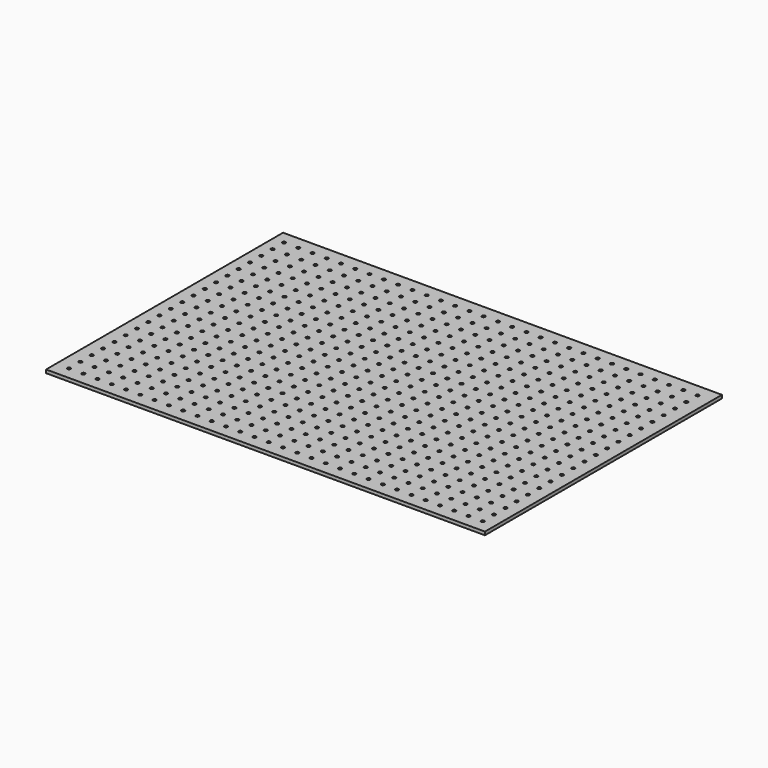
from build123d import *

# Parameters (mm, degrees)
F0_W     = 200
F0_H     = 135
F0_R     = 0.75
F1_DEPTH = 1.5


with BuildPart() as f1:
    # F0 (on Top) → F1 (new body)
    with BuildSketch(Plane.XY):
        Rectangle(F0_W, F0_H)
        with Locations((-94.109363, -61.746788)):
            Circle(F0_R, mode=Mode.SUBTRACT)
        with Locations((-87.609363, -61.746788)):
            Circle(F0_R, mode=Mode.SUBTRACT)
        with Locations((-81.109363, -61.746788)):
            Circle(F0_R, mode=Mode.SUBTRACT)
        with Locations((-94.156238, -55.246958)):
            Circle(F0_R, mode=Mode.SUBTRACT)
        with Locations((-87.656238, -55.246958)):
            Circle(F0_R, mode=Mode.SUBTRACT)
        with Locations((-81.156238, -55.246958)):
            Circle(F0_R, mode=Mode.SUBTRACT)
        with Locations((-74.609363, -61.746788)):
            Circle(F0_R, mode=Mode.SUBTRACT)
        with Locations((-68.109363, -61.746788)):
            Circle(F0_R, mode=Mode.SUBTRACT)
        with Locations((-61.609363, -61.746788)):
            Circle(F0_R, mode=Mode.SUBTRACT)
        with Locations((-55.109363, -61.746788)):
            Circle(F0_R, mode=Mode.SUBTRACT)
        with Locations((-74.656238, -55.246958)):
            Circle(F0_R, mode=Mode.SUBTRACT)
        with Locations((-68.156238, -55.246958)):
            Circle(F0_R, mode=Mode.SUBTRACT)
        with Locations((-61.656238, -55.246958)):
            Circle(F0_R, mode=Mode.SUBTRACT)
        with Locations((-55.156238, -55.246958)):
            Circle(F0_R, mode=Mode.SUBTRACT)
        with Locations((-94.203114, -48.747127)):
            Circle(F0_R, mode=Mode.SUBTRACT)
        with Locations((-87.703114, -48.747127)):
            Circle(F0_R, mode=Mode.SUBTRACT)
        with Locations((-94.24999, -42.247296)):
            Circle(F0_R, mode=Mode.SUBTRACT)
        with Locations((-87.74999, -42.247296)):
            Circle(F0_R, mode=Mode.SUBTRACT)
        with Locations((-81.203114, -48.747127)):
            Circle(F0_R, mode=Mode.SUBTRACT)
        with Locations((-81.24999, -42.247296)):
            Circle(F0_R, mode=Mode.SUBTRACT)
        with Locations((-94.296865, -35.747465)):
            Circle(F0_R, mode=Mode.SUBTRACT)
        with Locations((-87.796865, -35.747465)):
            Circle(F0_R, mode=Mode.SUBTRACT)
        with Locations((-81.296865, -35.747465)):
            Circle(F0_R, mode=Mode.SUBTRACT)
        with Locations((-74.703114, -48.747127)):
            Circle(F0_R, mode=Mode.SUBTRACT)
        with Locations((-68.203114, -48.747127)):
            Circle(F0_R, mode=Mode.SUBTRACT)
        with Locations((-74.74999, -42.247296)):
            Circle(F0_R, mode=Mode.SUBTRACT)
        with Locations((-68.24999, -42.247296)):
            Circle(F0_R, mode=Mode.SUBTRACT)
        with Locations((-61.703114, -48.747127)):
            Circle(F0_R, mode=Mode.SUBTRACT)
        with Locations((-55.203114, -48.747127)):
            Circle(F0_R, mode=Mode.SUBTRACT)
        with Locations((-61.74999, -42.247296)):
            Circle(F0_R, mode=Mode.SUBTRACT)
        with Locations((-55.24999, -42.247296)):
            Circle(F0_R, mode=Mode.SUBTRACT)
        with Locations((-74.796865, -35.747465)):
            Circle(F0_R, mode=Mode.SUBTRACT)
        with Locations((-68.296865, -35.747465)):
            Circle(F0_R, mode=Mode.SUBTRACT)
        with Locations((-61.796865, -35.747465)):
            Circle(F0_R, mode=Mode.SUBTRACT)
        with Locations((-55.296865, -35.747465)):
            Circle(F0_R, mode=Mode.SUBTRACT)
        with Locations((-48.609363, -61.746788)):
            Circle(F0_R, mode=Mode.SUBTRACT)
        with Locations((-42.109363, -61.746788)):
            Circle(F0_R, mode=Mode.SUBTRACT)
        with Locations((-35.609363, -61.746788)):
            Circle(F0_R, mode=Mode.SUBTRACT)
        with Locations((-29.109363, -61.746788)):
            Circle(F0_R, mode=Mode.SUBTRACT)
        with Locations((-48.656238, -55.246958)):
            Circle(F0_R, mode=Mode.SUBTRACT)
        with Locations((-42.156238, -55.246958)):
            Circle(F0_R, mode=Mode.SUBTRACT)
        with Locations((-35.656238, -55.246958)):
            Circle(F0_R, mode=Mode.SUBTRACT)
        with Locations((-29.156238, -55.246958)):
            Circle(F0_R, mode=Mode.SUBTRACT)
        with Locations((-22.609363, -61.746788)):
            Circle(F0_R, mode=Mode.SUBTRACT)
        with Locations((-16.109363, -61.746788)):
            Circle(F0_R, mode=Mode.SUBTRACT)
        with Locations((-9.609363, -61.746788)):
            Circle(F0_R, mode=Mode.SUBTRACT)
        with Locations((-3.109363, -61.746788)):
            Circle(F0_R, mode=Mode.SUBTRACT)
        with Locations((-22.656238, -55.246958)):
            Circle(F0_R, mode=Mode.SUBTRACT)
        with Locations((-16.156238, -55.246958)):
            Circle(F0_R, mode=Mode.SUBTRACT)
        with Locations((-9.656238, -55.246958)):
            Circle(F0_R, mode=Mode.SUBTRACT)
        with Locations((-3.156238, -55.246958)):
            Circle(F0_R, mode=Mode.SUBTRACT)
        with Locations((-48.703114, -48.747127)):
            Circle(F0_R, mode=Mode.SUBTRACT)
        with Locations((-42.203114, -48.747127)):
            Circle(F0_R, mode=Mode.SUBTRACT)
        with Locations((-48.74999, -42.247296)):
            Circle(F0_R, mode=Mode.SUBTRACT)
        with Locations((-42.24999, -42.247296)):
            Circle(F0_R, mode=Mode.SUBTRACT)
        with Locations((-35.703114, -48.747127)):
            Circle(F0_R, mode=Mode.SUBTRACT)
        with Locations((-29.203114, -48.747127)):
            Circle(F0_R, mode=Mode.SUBTRACT)
        with Locations((-35.74999, -42.247296)):
            Circle(F0_R, mode=Mode.SUBTRACT)
        with Locations((-29.24999, -42.247296)):
            Circle(F0_R, mode=Mode.SUBTRACT)
        with Locations((-48.796865, -35.747465)):
            Circle(F0_R, mode=Mode.SUBTRACT)
        with Locations((-42.296865, -35.747465)):
            Circle(F0_R, mode=Mode.SUBTRACT)
        with Locations((-35.796865, -35.747465)):
            Circle(F0_R, mode=Mode.SUBTRACT)
        with Locations((-29.296865, -35.747465)):
            Circle(F0_R, mode=Mode.SUBTRACT)
        with Locations((-22.703114, -48.747127)):
            Circle(F0_R, mode=Mode.SUBTRACT)
        with Locations((-16.203114, -48.747127)):
            Circle(F0_R, mode=Mode.SUBTRACT)
        with Locations((-22.74999, -42.247296)):
            Circle(F0_R, mode=Mode.SUBTRACT)
        with Locations((-16.24999, -42.247296)):
            Circle(F0_R, mode=Mode.SUBTRACT)
        with Locations((-9.703114, -48.747127)):
            Circle(F0_R, mode=Mode.SUBTRACT)
        with Locations((-3.203114, -48.747127)):
            Circle(F0_R, mode=Mode.SUBTRACT)
        with Locations((-9.74999, -42.247296)):
            Circle(F0_R, mode=Mode.SUBTRACT)
        with Locations((-3.24999, -42.247296)):
            Circle(F0_R, mode=Mode.SUBTRACT)
        with Locations((-22.796865, -35.747465)):
            Circle(F0_R, mode=Mode.SUBTRACT)
        with Locations((-16.296865, -35.747465)):
            Circle(F0_R, mode=Mode.SUBTRACT)
        with Locations((-9.796865, -35.747465)):
            Circle(F0_R, mode=Mode.SUBTRACT)
        with Locations((-3.296865, -35.747465)):
            Circle(F0_R, mode=Mode.SUBTRACT)
        with Locations((-94.343741, -29.247634)):
            Circle(F0_R, mode=Mode.SUBTRACT)
        with Locations((-87.843741, -29.247634)):
            Circle(F0_R, mode=Mode.SUBTRACT)
        with Locations((-81.343741, -29.247634)):
            Circle(F0_R, mode=Mode.SUBTRACT)
        with Locations((-94.390617, -22.747803)):
            Circle(F0_R, mode=Mode.SUBTRACT)
        with Locations((-87.890617, -22.747803)):
            Circle(F0_R, mode=Mode.SUBTRACT)
        with Locations((-81.390617, -22.747803)):
            Circle(F0_R, mode=Mode.SUBTRACT)
        with Locations((-74.843741, -29.247634)):
            Circle(F0_R, mode=Mode.SUBTRACT)
        with Locations((-68.343741, -29.247634)):
            Circle(F0_R, mode=Mode.SUBTRACT)
        with Locations((-61.843741, -29.247634)):
            Circle(F0_R, mode=Mode.SUBTRACT)
        with Locations((-55.343741, -29.247634)):
            Circle(F0_R, mode=Mode.SUBTRACT)
        with Locations((-74.890617, -22.747803)):
            Circle(F0_R, mode=Mode.SUBTRACT)
        with Locations((-68.390617, -22.747803)):
            Circle(F0_R, mode=Mode.SUBTRACT)
        with Locations((-61.890617, -22.747803)):
            Circle(F0_R, mode=Mode.SUBTRACT)
        with Locations((-55.390617, -22.747803)):
            Circle(F0_R, mode=Mode.SUBTRACT)
        with Locations((-94.437492, -16.247972)):
            Circle(F0_R, mode=Mode.SUBTRACT)
        with Locations((-87.937492, -16.247972)):
            Circle(F0_R, mode=Mode.SUBTRACT)
        with Locations((-94.484368, -9.748141)):
            Circle(F0_R, mode=Mode.SUBTRACT)
        with Locations((-87.984368, -9.748141)):
            Circle(F0_R, mode=Mode.SUBTRACT)
        with Locations((-81.437492, -16.247972)):
            Circle(F0_R, mode=Mode.SUBTRACT)
        with Locations((-81.484368, -9.748141)):
            Circle(F0_R, mode=Mode.SUBTRACT)
        with Locations((-94.531243, -3.24831)):
            Circle(F0_R, mode=Mode.SUBTRACT)
        with Locations((-88.031243, -3.24831)):
            Circle(F0_R, mode=Mode.SUBTRACT)
        with Locations((-81.531243, -3.24831)):
            Circle(F0_R, mode=Mode.SUBTRACT)
        with Locations((-75.031243, -3.24831)):
            Circle(F0_R, mode=Mode.SUBTRACT)
        with Locations((-74.937492, -16.247972)):
            Circle(F0_R, mode=Mode.SUBTRACT)
        with Locations((-68.437492, -16.247972)):
            Circle(F0_R, mode=Mode.SUBTRACT)
        with Locations((-74.984368, -9.748141)):
            Circle(F0_R, mode=Mode.SUBTRACT)
        with Locations((-68.484368, -9.748141)):
            Circle(F0_R, mode=Mode.SUBTRACT)
        with Locations((-61.937492, -16.247972)):
            Circle(F0_R, mode=Mode.SUBTRACT)
        with Locations((-55.437492, -16.247972)):
            Circle(F0_R, mode=Mode.SUBTRACT)
        with Locations((-61.984368, -9.748141)):
            Circle(F0_R, mode=Mode.SUBTRACT)
        with Locations((-55.484368, -9.748141)):
            Circle(F0_R, mode=Mode.SUBTRACT)
        with Locations((-68.531243, -3.24831)):
            Circle(F0_R, mode=Mode.SUBTRACT)
        with Locations((-62.031243, -3.24831)):
            Circle(F0_R, mode=Mode.SUBTRACT)
        with Locations((-55.531243, -3.24831)):
            Circle(F0_R, mode=Mode.SUBTRACT)
        with Locations((-48.843741, -29.247634)):
            Circle(F0_R, mode=Mode.SUBTRACT)
        with Locations((-42.343741, -29.247634)):
            Circle(F0_R, mode=Mode.SUBTRACT)
        with Locations((-35.843741, -29.247634)):
            Circle(F0_R, mode=Mode.SUBTRACT)
        with Locations((-29.343741, -29.247634)):
            Circle(F0_R, mode=Mode.SUBTRACT)
        with Locations((-48.890617, -22.747803)):
            Circle(F0_R, mode=Mode.SUBTRACT)
        with Locations((-42.390617, -22.747803)):
            Circle(F0_R, mode=Mode.SUBTRACT)
        with Locations((-35.890617, -22.747803)):
            Circle(F0_R, mode=Mode.SUBTRACT)
        with Locations((-29.390617, -22.747803)):
            Circle(F0_R, mode=Mode.SUBTRACT)
        with Locations((-22.843741, -29.247634)):
            Circle(F0_R, mode=Mode.SUBTRACT)
        with Locations((-16.343741, -29.247634)):
            Circle(F0_R, mode=Mode.SUBTRACT)
        with Locations((-9.843741, -29.247634)):
            Circle(F0_R, mode=Mode.SUBTRACT)
        with Locations((-3.343741, -29.247634)):
            Circle(F0_R, mode=Mode.SUBTRACT)
        with Locations((-22.890617, -22.747803)):
            Circle(F0_R, mode=Mode.SUBTRACT)
        with Locations((-16.390617, -22.747803)):
            Circle(F0_R, mode=Mode.SUBTRACT)
        with Locations((-9.890617, -22.747803)):
            Circle(F0_R, mode=Mode.SUBTRACT)
        with Locations((-3.390617, -22.747803)):
            Circle(F0_R, mode=Mode.SUBTRACT)
        with Locations((-48.937492, -16.247972)):
            Circle(F0_R, mode=Mode.SUBTRACT)
        with Locations((-42.437492, -16.247972)):
            Circle(F0_R, mode=Mode.SUBTRACT)
        with Locations((-48.984368, -9.748141)):
            Circle(F0_R, mode=Mode.SUBTRACT)
        with Locations((-42.484368, -9.748141)):
            Circle(F0_R, mode=Mode.SUBTRACT)
        with Locations((-35.937492, -16.247972)):
            Circle(F0_R, mode=Mode.SUBTRACT)
        with Locations((-29.437492, -16.247972)):
            Circle(F0_R, mode=Mode.SUBTRACT)
        with Locations((-35.984368, -9.748141)):
            Circle(F0_R, mode=Mode.SUBTRACT)
        with Locations((-29.484368, -9.748141)):
            Circle(F0_R, mode=Mode.SUBTRACT)
        with Locations((-49.031243, -3.24831)):
            Circle(F0_R, mode=Mode.SUBTRACT)
        with Locations((-42.531243, -3.24831)):
            Circle(F0_R, mode=Mode.SUBTRACT)
        with Locations((-36.031243, -3.24831)):
            Circle(F0_R, mode=Mode.SUBTRACT)
        with Locations((-29.531243, -3.24831)):
            Circle(F0_R, mode=Mode.SUBTRACT)
        with Locations((-22.937492, -16.247972)):
            Circle(F0_R, mode=Mode.SUBTRACT)
        with Locations((-16.437492, -16.247972)):
            Circle(F0_R, mode=Mode.SUBTRACT)
        with Locations((-22.984368, -9.748141)):
            Circle(F0_R, mode=Mode.SUBTRACT)
        with Locations((-16.484368, -9.748141)):
            Circle(F0_R, mode=Mode.SUBTRACT)
        with Locations((-9.937492, -16.247972)):
            Circle(F0_R, mode=Mode.SUBTRACT)
        with Locations((-3.437492, -16.247972)):
            Circle(F0_R, mode=Mode.SUBTRACT)
        with Locations((-9.984368, -9.748141)):
            Circle(F0_R, mode=Mode.SUBTRACT)
        with Locations((-3.484368, -9.748141)):
            Circle(F0_R, mode=Mode.SUBTRACT)
        with Locations((-23.031243, -3.24831)):
            Circle(F0_R, mode=Mode.SUBTRACT)
        with Locations((-16.531243, -3.24831)):
            Circle(F0_R, mode=Mode.SUBTRACT)
        with Locations((-10.031243, -3.24831)):
            Circle(F0_R, mode=Mode.SUBTRACT)
        with Locations((-3.531243, -3.24831)):
            Circle(F0_R, mode=Mode.SUBTRACT)
        with Locations((3.390637, -61.746788)):
            Circle(F0_R, mode=Mode.SUBTRACT)
        with Locations((9.890637, -61.746788)):
            Circle(F0_R, mode=Mode.SUBTRACT)
        with Locations((16.390637, -61.746788)):
            Circle(F0_R, mode=Mode.SUBTRACT)
        with Locations((22.890637, -61.746788)):
            Circle(F0_R, mode=Mode.SUBTRACT)
        with Locations((3.343762, -55.246958)):
            Circle(F0_R, mode=Mode.SUBTRACT)
        with Locations((9.843762, -55.246958)):
            Circle(F0_R, mode=Mode.SUBTRACT)
        with Locations((16.343762, -55.246958)):
            Circle(F0_R, mode=Mode.SUBTRACT)
        with Locations((22.843762, -55.246958)):
            Circle(F0_R, mode=Mode.SUBTRACT)
        with Locations((29.390637, -61.746788)):
            Circle(F0_R, mode=Mode.SUBTRACT)
        with Locations((35.890637, -61.746788)):
            Circle(F0_R, mode=Mode.SUBTRACT)
        with Locations((42.390637, -61.746788)):
            Circle(F0_R, mode=Mode.SUBTRACT)
        with Locations((48.890637, -61.746788)):
            Circle(F0_R, mode=Mode.SUBTRACT)
        with Locations((29.343762, -55.246958)):
            Circle(F0_R, mode=Mode.SUBTRACT)
        with Locations((35.843762, -55.246958)):
            Circle(F0_R, mode=Mode.SUBTRACT)
        with Locations((42.343762, -55.246958)):
            Circle(F0_R, mode=Mode.SUBTRACT)
        with Locations((48.843762, -55.246958)):
            Circle(F0_R, mode=Mode.SUBTRACT)
        with Locations((3.296886, -48.747127)):
            Circle(F0_R, mode=Mode.SUBTRACT)
        with Locations((9.796886, -48.747127)):
            Circle(F0_R, mode=Mode.SUBTRACT)
        with Locations((3.25001, -42.247296)):
            Circle(F0_R, mode=Mode.SUBTRACT)
        with Locations((9.75001, -42.247296)):
            Circle(F0_R, mode=Mode.SUBTRACT)
        with Locations((16.296886, -48.747127)):
            Circle(F0_R, mode=Mode.SUBTRACT)
        with Locations((22.796886, -48.747127)):
            Circle(F0_R, mode=Mode.SUBTRACT)
        with Locations((16.25001, -42.247296)):
            Circle(F0_R, mode=Mode.SUBTRACT)
        with Locations((22.75001, -42.247296)):
            Circle(F0_R, mode=Mode.SUBTRACT)
        with Locations((3.203135, -35.747465)):
            Circle(F0_R, mode=Mode.SUBTRACT)
        with Locations((9.703135, -35.747465)):
            Circle(F0_R, mode=Mode.SUBTRACT)
        with Locations((16.203135, -35.747465)):
            Circle(F0_R, mode=Mode.SUBTRACT)
        with Locations((22.703135, -35.747465)):
            Circle(F0_R, mode=Mode.SUBTRACT)
        with Locations((29.296886, -48.747127)):
            Circle(F0_R, mode=Mode.SUBTRACT)
        with Locations((35.796886, -48.747127)):
            Circle(F0_R, mode=Mode.SUBTRACT)
        with Locations((29.25001, -42.247296)):
            Circle(F0_R, mode=Mode.SUBTRACT)
        with Locations((35.75001, -42.247296)):
            Circle(F0_R, mode=Mode.SUBTRACT)
        with Locations((42.296886, -48.747127)):
            Circle(F0_R, mode=Mode.SUBTRACT)
        with Locations((48.796886, -48.747127)):
            Circle(F0_R, mode=Mode.SUBTRACT)
        with Locations((42.25001, -42.247296)):
            Circle(F0_R, mode=Mode.SUBTRACT)
        with Locations((48.75001, -42.247296)):
            Circle(F0_R, mode=Mode.SUBTRACT)
        with Locations((29.203135, -35.747465)):
            Circle(F0_R, mode=Mode.SUBTRACT)
        with Locations((35.703135, -35.747465)):
            Circle(F0_R, mode=Mode.SUBTRACT)
        with Locations((42.203135, -35.747465)):
            Circle(F0_R, mode=Mode.SUBTRACT)
        with Locations((48.703135, -35.747465)):
            Circle(F0_R, mode=Mode.SUBTRACT)
        with Locations((55.390637, -61.746788)):
            Circle(F0_R, mode=Mode.SUBTRACT)
        with Locations((61.890637, -61.746788)):
            Circle(F0_R, mode=Mode.SUBTRACT)
        with Locations((68.390637, -61.746788)):
            Circle(F0_R, mode=Mode.SUBTRACT)
        with Locations((74.890637, -61.746788)):
            Circle(F0_R, mode=Mode.SUBTRACT)
        with Locations((55.343762, -55.246958)):
            Circle(F0_R, mode=Mode.SUBTRACT)
        with Locations((61.843762, -55.246958)):
            Circle(F0_R, mode=Mode.SUBTRACT)
        with Locations((68.343762, -55.246958)):
            Circle(F0_R, mode=Mode.SUBTRACT)
        with Locations((74.843762, -55.246958)):
            Circle(F0_R, mode=Mode.SUBTRACT)
        with Locations((81.390637, -61.746788)):
            Circle(F0_R, mode=Mode.SUBTRACT)
        with Locations((87.890637, -61.746788)):
            Circle(F0_R, mode=Mode.SUBTRACT)
        with Locations((94.390637, -61.746788)):
            Circle(F0_R, mode=Mode.SUBTRACT)
        with Locations((81.343762, -55.246958)):
            Circle(F0_R, mode=Mode.SUBTRACT)
        with Locations((87.843762, -55.246958)):
            Circle(F0_R, mode=Mode.SUBTRACT)
        with Locations((94.343762, -55.246958)):
            Circle(F0_R, mode=Mode.SUBTRACT)
        with Locations((55.296886, -48.747127)):
            Circle(F0_R, mode=Mode.SUBTRACT)
        with Locations((61.796886, -48.747127)):
            Circle(F0_R, mode=Mode.SUBTRACT)
        with Locations((55.25001, -42.247296)):
            Circle(F0_R, mode=Mode.SUBTRACT)
        with Locations((61.75001, -42.247296)):
            Circle(F0_R, mode=Mode.SUBTRACT)
        with Locations((68.296886, -48.747127)):
            Circle(F0_R, mode=Mode.SUBTRACT)
        with Locations((74.796886, -48.747127)):
            Circle(F0_R, mode=Mode.SUBTRACT)
        with Locations((68.25001, -42.247296)):
            Circle(F0_R, mode=Mode.SUBTRACT)
        with Locations((74.75001, -42.247296)):
            Circle(F0_R, mode=Mode.SUBTRACT)
        with Locations((55.203135, -35.747465)):
            Circle(F0_R, mode=Mode.SUBTRACT)
        with Locations((61.703135, -35.747465)):
            Circle(F0_R, mode=Mode.SUBTRACT)
        with Locations((68.203135, -35.747465)):
            Circle(F0_R, mode=Mode.SUBTRACT)
        with Locations((74.703135, -35.747465)):
            Circle(F0_R, mode=Mode.SUBTRACT)
        with Locations((81.296886, -48.747127)):
            Circle(F0_R, mode=Mode.SUBTRACT)
        with Locations((81.25001, -42.247296)):
            Circle(F0_R, mode=Mode.SUBTRACT)
        with Locations((87.796886, -48.747127)):
            Circle(F0_R, mode=Mode.SUBTRACT)
        with Locations((94.296886, -48.747127)):
            Circle(F0_R, mode=Mode.SUBTRACT)
        with Locations((87.75001, -42.247296)):
            Circle(F0_R, mode=Mode.SUBTRACT)
        with Locations((94.25001, -42.247296)):
            Circle(F0_R, mode=Mode.SUBTRACT)
        with Locations((81.203135, -35.747465)):
            Circle(F0_R, mode=Mode.SUBTRACT)
        with Locations((87.703135, -35.747465)):
            Circle(F0_R, mode=Mode.SUBTRACT)
        with Locations((94.203135, -35.747465)):
            Circle(F0_R, mode=Mode.SUBTRACT)
        with Locations((3.156259, -29.247634)):
            Circle(F0_R, mode=Mode.SUBTRACT)
        with Locations((9.656259, -29.247634)):
            Circle(F0_R, mode=Mode.SUBTRACT)
        with Locations((16.156259, -29.247634)):
            Circle(F0_R, mode=Mode.SUBTRACT)
        with Locations((22.656259, -29.247634)):
            Circle(F0_R, mode=Mode.SUBTRACT)
        with Locations((3.109383, -22.747803)):
            Circle(F0_R, mode=Mode.SUBTRACT)
        with Locations((9.609383, -22.747803)):
            Circle(F0_R, mode=Mode.SUBTRACT)
        with Locations((16.109383, -22.747803)):
            Circle(F0_R, mode=Mode.SUBTRACT)
        with Locations((22.609383, -22.747803)):
            Circle(F0_R, mode=Mode.SUBTRACT)
        with Locations((29.156259, -29.247634)):
            Circle(F0_R, mode=Mode.SUBTRACT)
        with Locations((35.656259, -29.247634)):
            Circle(F0_R, mode=Mode.SUBTRACT)
        with Locations((42.156259, -29.247634)):
            Circle(F0_R, mode=Mode.SUBTRACT)
        with Locations((48.656259, -29.247634)):
            Circle(F0_R, mode=Mode.SUBTRACT)
        with Locations((29.109383, -22.747803)):
            Circle(F0_R, mode=Mode.SUBTRACT)
        with Locations((35.609383, -22.747803)):
            Circle(F0_R, mode=Mode.SUBTRACT)
        with Locations((42.109383, -22.747803)):
            Circle(F0_R, mode=Mode.SUBTRACT)
        with Locations((48.609383, -22.747803)):
            Circle(F0_R, mode=Mode.SUBTRACT)
        with Locations((3.062508, -16.247972)):
            Circle(F0_R, mode=Mode.SUBTRACT)
        with Locations((9.562508, -16.247972)):
            Circle(F0_R, mode=Mode.SUBTRACT)
        with Locations((3.015632, -9.748141)):
            Circle(F0_R, mode=Mode.SUBTRACT)
        with Locations((9.515632, -9.748141)):
            Circle(F0_R, mode=Mode.SUBTRACT)
        with Locations((16.062508, -16.247972)):
            Circle(F0_R, mode=Mode.SUBTRACT)
        with Locations((22.562508, -16.247972)):
            Circle(F0_R, mode=Mode.SUBTRACT)
        with Locations((16.015632, -9.748141)):
            Circle(F0_R, mode=Mode.SUBTRACT)
        with Locations((22.515632, -9.748141)):
            Circle(F0_R, mode=Mode.SUBTRACT)
        with Locations((2.968757, -3.24831)):
            Circle(F0_R, mode=Mode.SUBTRACT)
        with Locations((9.468757, -3.24831)):
            Circle(F0_R, mode=Mode.SUBTRACT)
        with Locations((15.968757, -3.24831)):
            Circle(F0_R, mode=Mode.SUBTRACT)
        with Locations((22.468757, -3.24831)):
            Circle(F0_R, mode=Mode.SUBTRACT)
        with Locations((29.062508, -16.247972)):
            Circle(F0_R, mode=Mode.SUBTRACT)
        with Locations((35.562508, -16.247972)):
            Circle(F0_R, mode=Mode.SUBTRACT)
        with Locations((29.015632, -9.748141)):
            Circle(F0_R, mode=Mode.SUBTRACT)
        with Locations((35.515632, -9.748141)):
            Circle(F0_R, mode=Mode.SUBTRACT)
        with Locations((42.062508, -16.247972)):
            Circle(F0_R, mode=Mode.SUBTRACT)
        with Locations((48.562508, -16.247972)):
            Circle(F0_R, mode=Mode.SUBTRACT)
        with Locations((42.015632, -9.748141)):
            Circle(F0_R, mode=Mode.SUBTRACT)
        with Locations((48.515632, -9.748141)):
            Circle(F0_R, mode=Mode.SUBTRACT)
        with Locations((28.968757, -3.24831)):
            Circle(F0_R, mode=Mode.SUBTRACT)
        with Locations((35.468757, -3.24831)):
            Circle(F0_R, mode=Mode.SUBTRACT)
        with Locations((41.968757, -3.24831)):
            Circle(F0_R, mode=Mode.SUBTRACT)
        with Locations((48.468757, -3.24831)):
            Circle(F0_R, mode=Mode.SUBTRACT)
        with Locations((55.156259, -29.247634)):
            Circle(F0_R, mode=Mode.SUBTRACT)
        with Locations((61.656259, -29.247634)):
            Circle(F0_R, mode=Mode.SUBTRACT)
        with Locations((68.156259, -29.247634)):
            Circle(F0_R, mode=Mode.SUBTRACT)
        with Locations((74.656259, -29.247634)):
            Circle(F0_R, mode=Mode.SUBTRACT)
        with Locations((55.109383, -22.747803)):
            Circle(F0_R, mode=Mode.SUBTRACT)
        with Locations((61.609383, -22.747803)):
            Circle(F0_R, mode=Mode.SUBTRACT)
        with Locations((68.109383, -22.747803)):
            Circle(F0_R, mode=Mode.SUBTRACT)
        with Locations((74.609383, -22.747803)):
            Circle(F0_R, mode=Mode.SUBTRACT)
        with Locations((81.156259, -29.247634)):
            Circle(F0_R, mode=Mode.SUBTRACT)
        with Locations((87.656259, -29.247634)):
            Circle(F0_R, mode=Mode.SUBTRACT)
        with Locations((94.156259, -29.247634)):
            Circle(F0_R, mode=Mode.SUBTRACT)
        with Locations((81.109383, -22.747803)):
            Circle(F0_R, mode=Mode.SUBTRACT)
        with Locations((87.609383, -22.747803)):
            Circle(F0_R, mode=Mode.SUBTRACT)
        with Locations((94.109383, -22.747803)):
            Circle(F0_R, mode=Mode.SUBTRACT)
        with Locations((55.062508, -16.247972)):
            Circle(F0_R, mode=Mode.SUBTRACT)
        with Locations((61.562508, -16.247972)):
            Circle(F0_R, mode=Mode.SUBTRACT)
        with Locations((55.015632, -9.748141)):
            Circle(F0_R, mode=Mode.SUBTRACT)
        with Locations((61.515632, -9.748141)):
            Circle(F0_R, mode=Mode.SUBTRACT)
        with Locations((68.062508, -16.247972)):
            Circle(F0_R, mode=Mode.SUBTRACT)
        with Locations((74.562508, -16.247972)):
            Circle(F0_R, mode=Mode.SUBTRACT)
        with Locations((68.015632, -9.748141)):
            Circle(F0_R, mode=Mode.SUBTRACT)
        with Locations((74.515632, -9.748141)):
            Circle(F0_R, mode=Mode.SUBTRACT)
        with Locations((54.968757, -3.24831)):
            Circle(F0_R, mode=Mode.SUBTRACT)
        with Locations((61.468757, -3.24831)):
            Circle(F0_R, mode=Mode.SUBTRACT)
        with Locations((67.968757, -3.24831)):
            Circle(F0_R, mode=Mode.SUBTRACT)
        with Locations((74.468757, -3.24831)):
            Circle(F0_R, mode=Mode.SUBTRACT)
        with Locations((81.062508, -16.247972)):
            Circle(F0_R, mode=Mode.SUBTRACT)
        with Locations((81.015632, -9.748141)):
            Circle(F0_R, mode=Mode.SUBTRACT)
        with Locations((87.562508, -16.247972)):
            Circle(F0_R, mode=Mode.SUBTRACT)
        with Locations((94.062508, -16.247972)):
            Circle(F0_R, mode=Mode.SUBTRACT)
        with Locations((87.515632, -9.748141)):
            Circle(F0_R, mode=Mode.SUBTRACT)
        with Locations((94.015632, -9.748141)):
            Circle(F0_R, mode=Mode.SUBTRACT)
        with Locations((80.968757, -3.24831)):
            Circle(F0_R, mode=Mode.SUBTRACT)
        with Locations((87.468757, -3.24831)):
            Circle(F0_R, mode=Mode.SUBTRACT)
        with Locations((93.968757, -3.24831)):
            Circle(F0_R, mode=Mode.SUBTRACT)
        with Locations((-94.578119, 3.251521)):
            Circle(F0_R, mode=Mode.SUBTRACT)
        with Locations((-88.078119, 3.251521)):
            Circle(F0_R, mode=Mode.SUBTRACT)
        with Locations((-81.578119, 3.251521)):
            Circle(F0_R, mode=Mode.SUBTRACT)
        with Locations((-75.078119, 3.251521)):
            Circle(F0_R, mode=Mode.SUBTRACT)
        with Locations((-94.624995, 9.751352)):
            Circle(F0_R, mode=Mode.SUBTRACT)
        with Locations((-88.124995, 9.751352)):
            Circle(F0_R, mode=Mode.SUBTRACT)
        with Locations((-94.67187, 16.251183)):
            Circle(F0_R, mode=Mode.SUBTRACT)
        with Locations((-88.17187, 16.251183)):
            Circle(F0_R, mode=Mode.SUBTRACT)
        with Locations((-81.624995, 9.751352)):
            Circle(F0_R, mode=Mode.SUBTRACT)
        with Locations((-75.124995, 9.751352)):
            Circle(F0_R, mode=Mode.SUBTRACT)
        with Locations((-81.67187, 16.251183)):
            Circle(F0_R, mode=Mode.SUBTRACT)
        with Locations((-75.17187, 16.251183)):
            Circle(F0_R, mode=Mode.SUBTRACT)
        with Locations((-68.578119, 3.251521)):
            Circle(F0_R, mode=Mode.SUBTRACT)
        with Locations((-62.078119, 3.251521)):
            Circle(F0_R, mode=Mode.SUBTRACT)
        with Locations((-55.578119, 3.251521)):
            Circle(F0_R, mode=Mode.SUBTRACT)
        with Locations((-68.624995, 9.751352)):
            Circle(F0_R, mode=Mode.SUBTRACT)
        with Locations((-68.67187, 16.251183)):
            Circle(F0_R, mode=Mode.SUBTRACT)
        with Locations((-62.124995, 9.751352)):
            Circle(F0_R, mode=Mode.SUBTRACT)
        with Locations((-55.624995, 9.751352)):
            Circle(F0_R, mode=Mode.SUBTRACT)
        with Locations((-62.17187, 16.251183)):
            Circle(F0_R, mode=Mode.SUBTRACT)
        with Locations((-55.67187, 16.251183)):
            Circle(F0_R, mode=Mode.SUBTRACT)
        with Locations((-94.718746, 22.751014)):
            Circle(F0_R, mode=Mode.SUBTRACT)
        with Locations((-88.218746, 22.751014)):
            Circle(F0_R, mode=Mode.SUBTRACT)
        with Locations((-81.718746, 22.751014)):
            Circle(F0_R, mode=Mode.SUBTRACT)
        with Locations((-75.218746, 22.751014)):
            Circle(F0_R, mode=Mode.SUBTRACT)
        with Locations((-94.765622, 29.250845)):
            Circle(F0_R, mode=Mode.SUBTRACT)
        with Locations((-88.265622, 29.250845)):
            Circle(F0_R, mode=Mode.SUBTRACT)
        with Locations((-81.765622, 29.250845)):
            Circle(F0_R, mode=Mode.SUBTRACT)
        with Locations((-75.265622, 29.250845)):
            Circle(F0_R, mode=Mode.SUBTRACT)
        with Locations((-68.718746, 22.751014)):
            Circle(F0_R, mode=Mode.SUBTRACT)
        with Locations((-62.218746, 22.751014)):
            Circle(F0_R, mode=Mode.SUBTRACT)
        with Locations((-55.718746, 22.751014)):
            Circle(F0_R, mode=Mode.SUBTRACT)
        with Locations((-68.765622, 29.250845)):
            Circle(F0_R, mode=Mode.SUBTRACT)
        with Locations((-62.265622, 29.250845)):
            Circle(F0_R, mode=Mode.SUBTRACT)
        with Locations((-55.765622, 29.250845)):
            Circle(F0_R, mode=Mode.SUBTRACT)
        with Locations((-49.078119, 3.251521)):
            Circle(F0_R, mode=Mode.SUBTRACT)
        with Locations((-42.578119, 3.251521)):
            Circle(F0_R, mode=Mode.SUBTRACT)
        with Locations((-36.078119, 3.251521)):
            Circle(F0_R, mode=Mode.SUBTRACT)
        with Locations((-29.578119, 3.251521)):
            Circle(F0_R, mode=Mode.SUBTRACT)
        with Locations((-49.124995, 9.751352)):
            Circle(F0_R, mode=Mode.SUBTRACT)
        with Locations((-42.624995, 9.751352)):
            Circle(F0_R, mode=Mode.SUBTRACT)
        with Locations((-49.17187, 16.251183)):
            Circle(F0_R, mode=Mode.SUBTRACT)
        with Locations((-42.67187, 16.251183)):
            Circle(F0_R, mode=Mode.SUBTRACT)
        with Locations((-36.124995, 9.751352)):
            Circle(F0_R, mode=Mode.SUBTRACT)
        with Locations((-29.624995, 9.751352)):
            Circle(F0_R, mode=Mode.SUBTRACT)
        with Locations((-36.17187, 16.251183)):
            Circle(F0_R, mode=Mode.SUBTRACT)
        with Locations((-29.67187, 16.251183)):
            Circle(F0_R, mode=Mode.SUBTRACT)
        with Locations((-23.078119, 3.251521)):
            Circle(F0_R, mode=Mode.SUBTRACT)
        with Locations((-16.578119, 3.251521)):
            Circle(F0_R, mode=Mode.SUBTRACT)
        with Locations((-10.078119, 3.251521)):
            Circle(F0_R, mode=Mode.SUBTRACT)
        with Locations((-3.578119, 3.251521)):
            Circle(F0_R, mode=Mode.SUBTRACT)
        with Locations((-23.124995, 9.751352)):
            Circle(F0_R, mode=Mode.SUBTRACT)
        with Locations((-16.624995, 9.751352)):
            Circle(F0_R, mode=Mode.SUBTRACT)
        with Locations((-23.17187, 16.251183)):
            Circle(F0_R, mode=Mode.SUBTRACT)
        with Locations((-16.67187, 16.251183)):
            Circle(F0_R, mode=Mode.SUBTRACT)
        with Locations((-10.124995, 9.751352)):
            Circle(F0_R, mode=Mode.SUBTRACT)
        with Locations((-3.624995, 9.751352)):
            Circle(F0_R, mode=Mode.SUBTRACT)
        with Locations((-10.17187, 16.251183)):
            Circle(F0_R, mode=Mode.SUBTRACT)
        with Locations((-3.67187, 16.251183)):
            Circle(F0_R, mode=Mode.SUBTRACT)
        with Locations((-49.218746, 22.751014)):
            Circle(F0_R, mode=Mode.SUBTRACT)
        with Locations((-42.718746, 22.751014)):
            Circle(F0_R, mode=Mode.SUBTRACT)
        with Locations((-36.218746, 22.751014)):
            Circle(F0_R, mode=Mode.SUBTRACT)
        with Locations((-29.718746, 22.751014)):
            Circle(F0_R, mode=Mode.SUBTRACT)
        with Locations((-49.265622, 29.250845)):
            Circle(F0_R, mode=Mode.SUBTRACT)
        with Locations((-42.765622, 29.250845)):
            Circle(F0_R, mode=Mode.SUBTRACT)
        with Locations((-36.265622, 29.250845)):
            Circle(F0_R, mode=Mode.SUBTRACT)
        with Locations((-29.765622, 29.250845)):
            Circle(F0_R, mode=Mode.SUBTRACT)
        with Locations((-23.218746, 22.751014)):
            Circle(F0_R, mode=Mode.SUBTRACT)
        with Locations((-16.718746, 22.751014)):
            Circle(F0_R, mode=Mode.SUBTRACT)
        with Locations((-10.218746, 22.751014)):
            Circle(F0_R, mode=Mode.SUBTRACT)
        with Locations((-3.718746, 22.751014)):
            Circle(F0_R, mode=Mode.SUBTRACT)
        with Locations((-23.265622, 29.250845)):
            Circle(F0_R, mode=Mode.SUBTRACT)
        with Locations((-16.765622, 29.250845)):
            Circle(F0_R, mode=Mode.SUBTRACT)
        with Locations((-10.265622, 29.250845)):
            Circle(F0_R, mode=Mode.SUBTRACT)
        with Locations((-3.765622, 29.250845)):
            Circle(F0_R, mode=Mode.SUBTRACT)
        with Locations((-94.812497, 35.750676)):
            Circle(F0_R, mode=Mode.SUBTRACT)
        with Locations((-88.312497, 35.750676)):
            Circle(F0_R, mode=Mode.SUBTRACT)
        with Locations((-81.812497, 35.750676)):
            Circle(F0_R, mode=Mode.SUBTRACT)
        with Locations((-75.312497, 35.750676)):
            Circle(F0_R, mode=Mode.SUBTRACT)
        with Locations((-94.859373, 42.250507)):
            Circle(F0_R, mode=Mode.SUBTRACT)
        with Locations((-88.359373, 42.250507)):
            Circle(F0_R, mode=Mode.SUBTRACT)
        with Locations((-94.906249, 48.750338)):
            Circle(F0_R, mode=Mode.SUBTRACT)
        with Locations((-88.406249, 48.750338)):
            Circle(F0_R, mode=Mode.SUBTRACT)
        with Locations((-81.859373, 42.250507)):
            Circle(F0_R, mode=Mode.SUBTRACT)
        with Locations((-75.359373, 42.250507)):
            Circle(F0_R, mode=Mode.SUBTRACT)
        with Locations((-81.906249, 48.750338)):
            Circle(F0_R, mode=Mode.SUBTRACT)
        with Locations((-75.406249, 48.750338)):
            Circle(F0_R, mode=Mode.SUBTRACT)
        with Locations((-68.812497, 35.750676)):
            Circle(F0_R, mode=Mode.SUBTRACT)
        with Locations((-62.312497, 35.750676)):
            Circle(F0_R, mode=Mode.SUBTRACT)
        with Locations((-55.812497, 35.750676)):
            Circle(F0_R, mode=Mode.SUBTRACT)
        with Locations((-68.859373, 42.250507)):
            Circle(F0_R, mode=Mode.SUBTRACT)
        with Locations((-68.906249, 48.750338)):
            Circle(F0_R, mode=Mode.SUBTRACT)
        with Locations((-62.359373, 42.250507)):
            Circle(F0_R, mode=Mode.SUBTRACT)
        with Locations((-55.859373, 42.250507)):
            Circle(F0_R, mode=Mode.SUBTRACT)
        with Locations((-62.406249, 48.750338)):
            Circle(F0_R, mode=Mode.SUBTRACT)
        with Locations((-55.906249, 48.750338)):
            Circle(F0_R, mode=Mode.SUBTRACT)
        with Locations((-94.953124, 55.250169)):
            Circle(F0_R, mode=Mode.SUBTRACT)
        with Locations((-88.453124, 55.250169)):
            Circle(F0_R, mode=Mode.SUBTRACT)
        with Locations((-81.953124, 55.250169)):
            Circle(F0_R, mode=Mode.SUBTRACT)
        with Locations((-75.453124, 55.250169)):
            Circle(F0_R, mode=Mode.SUBTRACT)
        with Locations((-95, 61.75)):
            Circle(F0_R, mode=Mode.SUBTRACT)
        with Locations((-88.5, 61.75)):
            Circle(F0_R, mode=Mode.SUBTRACT)
        with Locations((-82, 61.75)):
            Circle(F0_R, mode=Mode.SUBTRACT)
        with Locations((-75.5, 61.75)):
            Circle(F0_R, mode=Mode.SUBTRACT)
        with Locations((-68.953124, 55.250169)):
            Circle(F0_R, mode=Mode.SUBTRACT)
        with Locations((-62.453124, 55.250169)):
            Circle(F0_R, mode=Mode.SUBTRACT)
        with Locations((-55.953124, 55.250169)):
            Circle(F0_R, mode=Mode.SUBTRACT)
        with Locations((-69, 61.75)):
            Circle(F0_R, mode=Mode.SUBTRACT)
        with Locations((-62.5, 61.75)):
            Circle(F0_R, mode=Mode.SUBTRACT)
        with Locations((-56, 61.75)):
            Circle(F0_R, mode=Mode.SUBTRACT)
        with Locations((-49.312497, 35.750676)):
            Circle(F0_R, mode=Mode.SUBTRACT)
        with Locations((-42.812497, 35.750676)):
            Circle(F0_R, mode=Mode.SUBTRACT)
        with Locations((-36.312497, 35.750676)):
            Circle(F0_R, mode=Mode.SUBTRACT)
        with Locations((-29.812497, 35.750676)):
            Circle(F0_R, mode=Mode.SUBTRACT)
        with Locations((-49.359373, 42.250507)):
            Circle(F0_R, mode=Mode.SUBTRACT)
        with Locations((-42.859373, 42.250507)):
            Circle(F0_R, mode=Mode.SUBTRACT)
        with Locations((-49.406249, 48.750338)):
            Circle(F0_R, mode=Mode.SUBTRACT)
        with Locations((-42.906249, 48.750338)):
            Circle(F0_R, mode=Mode.SUBTRACT)
        with Locations((-36.359373, 42.250507)):
            Circle(F0_R, mode=Mode.SUBTRACT)
        with Locations((-29.859373, 42.250507)):
            Circle(F0_R, mode=Mode.SUBTRACT)
        with Locations((-36.406249, 48.750338)):
            Circle(F0_R, mode=Mode.SUBTRACT)
        with Locations((-29.906249, 48.750338)):
            Circle(F0_R, mode=Mode.SUBTRACT)
        with Locations((-23.312497, 35.750676)):
            Circle(F0_R, mode=Mode.SUBTRACT)
        with Locations((-16.812497, 35.750676)):
            Circle(F0_R, mode=Mode.SUBTRACT)
        with Locations((-10.312497, 35.750676)):
            Circle(F0_R, mode=Mode.SUBTRACT)
        with Locations((-3.812497, 35.750676)):
            Circle(F0_R, mode=Mode.SUBTRACT)
        with Locations((-23.359373, 42.250507)):
            Circle(F0_R, mode=Mode.SUBTRACT)
        with Locations((-16.859373, 42.250507)):
            Circle(F0_R, mode=Mode.SUBTRACT)
        with Locations((-23.406249, 48.750338)):
            Circle(F0_R, mode=Mode.SUBTRACT)
        with Locations((-16.906249, 48.750338)):
            Circle(F0_R, mode=Mode.SUBTRACT)
        with Locations((-10.359373, 42.250507)):
            Circle(F0_R, mode=Mode.SUBTRACT)
        with Locations((-3.859373, 42.250507)):
            Circle(F0_R, mode=Mode.SUBTRACT)
        with Locations((-10.406249, 48.750338)):
            Circle(F0_R, mode=Mode.SUBTRACT)
        with Locations((-3.906249, 48.750338)):
            Circle(F0_R, mode=Mode.SUBTRACT)
        with Locations((-49.453124, 55.250169)):
            Circle(F0_R, mode=Mode.SUBTRACT)
        with Locations((-42.953124, 55.250169)):
            Circle(F0_R, mode=Mode.SUBTRACT)
        with Locations((-36.453124, 55.250169)):
            Circle(F0_R, mode=Mode.SUBTRACT)
        with Locations((-29.953124, 55.250169)):
            Circle(F0_R, mode=Mode.SUBTRACT)
        with Locations((-49.5, 61.75)):
            Circle(F0_R, mode=Mode.SUBTRACT)
        with Locations((-43, 61.75)):
            Circle(F0_R, mode=Mode.SUBTRACT)
        with Locations((-36.5, 61.75)):
            Circle(F0_R, mode=Mode.SUBTRACT)
        with Locations((-30, 61.75)):
            Circle(F0_R, mode=Mode.SUBTRACT)
        with Locations((-23.453124, 55.250169)):
            Circle(F0_R, mode=Mode.SUBTRACT)
        with Locations((-16.953124, 55.250169)):
            Circle(F0_R, mode=Mode.SUBTRACT)
        with Locations((-10.453124, 55.250169)):
            Circle(F0_R, mode=Mode.SUBTRACT)
        with Locations((-3.953124, 55.250169)):
            Circle(F0_R, mode=Mode.SUBTRACT)
        with Locations((-23.5, 61.75)):
            Circle(F0_R, mode=Mode.SUBTRACT)
        with Locations((-17, 61.75)):
            Circle(F0_R, mode=Mode.SUBTRACT)
        with Locations((-10.5, 61.75)):
            Circle(F0_R, mode=Mode.SUBTRACT)
        with Locations((-4, 61.75)):
            Circle(F0_R, mode=Mode.SUBTRACT)
        with Locations((2.921881, 3.251521)):
            Circle(F0_R, mode=Mode.SUBTRACT)
        with Locations((9.421881, 3.251521)):
            Circle(F0_R, mode=Mode.SUBTRACT)
        with Locations((15.921881, 3.251521)):
            Circle(F0_R, mode=Mode.SUBTRACT)
        with Locations((22.421881, 3.251521)):
            Circle(F0_R, mode=Mode.SUBTRACT)
        with Locations((2.875005, 9.751352)):
            Circle(F0_R, mode=Mode.SUBTRACT)
        with Locations((9.375005, 9.751352)):
            Circle(F0_R, mode=Mode.SUBTRACT)
        with Locations((2.82813, 16.251183)):
            Circle(F0_R, mode=Mode.SUBTRACT)
        with Locations((9.32813, 16.251183)):
            Circle(F0_R, mode=Mode.SUBTRACT)
        with Locations((15.875005, 9.751352)):
            Circle(F0_R, mode=Mode.SUBTRACT)
        with Locations((22.375005, 9.751352)):
            Circle(F0_R, mode=Mode.SUBTRACT)
        with Locations((15.82813, 16.251183)):
            Circle(F0_R, mode=Mode.SUBTRACT)
        with Locations((22.32813, 16.251183)):
            Circle(F0_R, mode=Mode.SUBTRACT)
        with Locations((28.921881, 3.251521)):
            Circle(F0_R, mode=Mode.SUBTRACT)
        with Locations((35.421881, 3.251521)):
            Circle(F0_R, mode=Mode.SUBTRACT)
        with Locations((41.921881, 3.251521)):
            Circle(F0_R, mode=Mode.SUBTRACT)
        with Locations((48.421881, 3.251521)):
            Circle(F0_R, mode=Mode.SUBTRACT)
        with Locations((28.875005, 9.751352)):
            Circle(F0_R, mode=Mode.SUBTRACT)
        with Locations((35.375005, 9.751352)):
            Circle(F0_R, mode=Mode.SUBTRACT)
        with Locations((28.82813, 16.251183)):
            Circle(F0_R, mode=Mode.SUBTRACT)
        with Locations((35.32813, 16.251183)):
            Circle(F0_R, mode=Mode.SUBTRACT)
        with Locations((41.875005, 9.751352)):
            Circle(F0_R, mode=Mode.SUBTRACT)
        with Locations((48.375005, 9.751352)):
            Circle(F0_R, mode=Mode.SUBTRACT)
        with Locations((41.82813, 16.251183)):
            Circle(F0_R, mode=Mode.SUBTRACT)
        with Locations((48.32813, 16.251183)):
            Circle(F0_R, mode=Mode.SUBTRACT)
        with Locations((2.781254, 22.751014)):
            Circle(F0_R, mode=Mode.SUBTRACT)
        with Locations((9.281254, 22.751014)):
            Circle(F0_R, mode=Mode.SUBTRACT)
        with Locations((15.781254, 22.751014)):
            Circle(F0_R, mode=Mode.SUBTRACT)
        with Locations((22.281254, 22.751014)):
            Circle(F0_R, mode=Mode.SUBTRACT)
        with Locations((2.734378, 29.250845)):
            Circle(F0_R, mode=Mode.SUBTRACT)
        with Locations((9.234378, 29.250845)):
            Circle(F0_R, mode=Mode.SUBTRACT)
        with Locations((15.734378, 29.250845)):
            Circle(F0_R, mode=Mode.SUBTRACT)
        with Locations((22.234378, 29.250845)):
            Circle(F0_R, mode=Mode.SUBTRACT)
        with Locations((28.781254, 22.751014)):
            Circle(F0_R, mode=Mode.SUBTRACT)
        with Locations((35.281254, 22.751014)):
            Circle(F0_R, mode=Mode.SUBTRACT)
        with Locations((41.781254, 22.751014)):
            Circle(F0_R, mode=Mode.SUBTRACT)
        with Locations((48.281254, 22.751014)):
            Circle(F0_R, mode=Mode.SUBTRACT)
        with Locations((28.734378, 29.250845)):
            Circle(F0_R, mode=Mode.SUBTRACT)
        with Locations((35.234378, 29.250845)):
            Circle(F0_R, mode=Mode.SUBTRACT)
        with Locations((41.734378, 29.250845)):
            Circle(F0_R, mode=Mode.SUBTRACT)
        with Locations((48.234378, 29.250845)):
            Circle(F0_R, mode=Mode.SUBTRACT)
        with Locations((54.921881, 3.251521)):
            Circle(F0_R, mode=Mode.SUBTRACT)
        with Locations((61.421881, 3.251521)):
            Circle(F0_R, mode=Mode.SUBTRACT)
        with Locations((67.921881, 3.251521)):
            Circle(F0_R, mode=Mode.SUBTRACT)
        with Locations((74.421881, 3.251521)):
            Circle(F0_R, mode=Mode.SUBTRACT)
        with Locations((54.875005, 9.751352)):
            Circle(F0_R, mode=Mode.SUBTRACT)
        with Locations((61.375005, 9.751352)):
            Circle(F0_R, mode=Mode.SUBTRACT)
        with Locations((54.82813, 16.251183)):
            Circle(F0_R, mode=Mode.SUBTRACT)
        with Locations((61.32813, 16.251183)):
            Circle(F0_R, mode=Mode.SUBTRACT)
        with Locations((67.875005, 9.751352)):
            Circle(F0_R, mode=Mode.SUBTRACT)
        with Locations((74.375005, 9.751352)):
            Circle(F0_R, mode=Mode.SUBTRACT)
        with Locations((67.82813, 16.251183)):
            Circle(F0_R, mode=Mode.SUBTRACT)
        with Locations((74.32813, 16.251183)):
            Circle(F0_R, mode=Mode.SUBTRACT)
        with Locations((80.921881, 3.251521)):
            Circle(F0_R, mode=Mode.SUBTRACT)
        with Locations((87.421881, 3.251521)):
            Circle(F0_R, mode=Mode.SUBTRACT)
        with Locations((93.921881, 3.251521)):
            Circle(F0_R, mode=Mode.SUBTRACT)
        with Locations((80.875005, 9.751352)):
            Circle(F0_R, mode=Mode.SUBTRACT)
        with Locations((87.375005, 9.751352)):
            Circle(F0_R, mode=Mode.SUBTRACT)
        with Locations((80.82813, 16.251183)):
            Circle(F0_R, mode=Mode.SUBTRACT)
        with Locations((87.32813, 16.251183)):
            Circle(F0_R, mode=Mode.SUBTRACT)
        with Locations((93.875005, 9.751352)):
            Circle(F0_R, mode=Mode.SUBTRACT)
        with Locations((93.82813, 16.251183)):
            Circle(F0_R, mode=Mode.SUBTRACT)
        with Locations((54.781254, 22.751014)):
            Circle(F0_R, mode=Mode.SUBTRACT)
        with Locations((61.281254, 22.751014)):
            Circle(F0_R, mode=Mode.SUBTRACT)
        with Locations((67.781254, 22.751014)):
            Circle(F0_R, mode=Mode.SUBTRACT)
        with Locations((74.281254, 22.751014)):
            Circle(F0_R, mode=Mode.SUBTRACT)
        with Locations((54.734378, 29.250845)):
            Circle(F0_R, mode=Mode.SUBTRACT)
        with Locations((61.234378, 29.250845)):
            Circle(F0_R, mode=Mode.SUBTRACT)
        with Locations((67.734378, 29.250845)):
            Circle(F0_R, mode=Mode.SUBTRACT)
        with Locations((74.234378, 29.250845)):
            Circle(F0_R, mode=Mode.SUBTRACT)
        with Locations((80.781254, 22.751014)):
            Circle(F0_R, mode=Mode.SUBTRACT)
        with Locations((87.281254, 22.751014)):
            Circle(F0_R, mode=Mode.SUBTRACT)
        with Locations((93.781254, 22.751014)):
            Circle(F0_R, mode=Mode.SUBTRACT)
        with Locations((80.734378, 29.250845)):
            Circle(F0_R, mode=Mode.SUBTRACT)
        with Locations((87.234378, 29.250845)):
            Circle(F0_R, mode=Mode.SUBTRACT)
        with Locations((93.734378, 29.250845)):
            Circle(F0_R, mode=Mode.SUBTRACT)
        with Locations((2.687503, 35.750676)):
            Circle(F0_R, mode=Mode.SUBTRACT)
        with Locations((9.187503, 35.750676)):
            Circle(F0_R, mode=Mode.SUBTRACT)
        with Locations((15.687503, 35.750676)):
            Circle(F0_R, mode=Mode.SUBTRACT)
        with Locations((22.187503, 35.750676)):
            Circle(F0_R, mode=Mode.SUBTRACT)
        with Locations((2.640627, 42.250507)):
            Circle(F0_R, mode=Mode.SUBTRACT)
        with Locations((9.140627, 42.250507)):
            Circle(F0_R, mode=Mode.SUBTRACT)
        with Locations((2.593751, 48.750338)):
            Circle(F0_R, mode=Mode.SUBTRACT)
        with Locations((9.093751, 48.750338)):
            Circle(F0_R, mode=Mode.SUBTRACT)
        with Locations((15.640627, 42.250507)):
            Circle(F0_R, mode=Mode.SUBTRACT)
        with Locations((22.140627, 42.250507)):
            Circle(F0_R, mode=Mode.SUBTRACT)
        with Locations((15.593751, 48.750338)):
            Circle(F0_R, mode=Mode.SUBTRACT)
        with Locations((22.093751, 48.750338)):
            Circle(F0_R, mode=Mode.SUBTRACT)
        with Locations((28.687503, 35.750676)):
            Circle(F0_R, mode=Mode.SUBTRACT)
        with Locations((35.187503, 35.750676)):
            Circle(F0_R, mode=Mode.SUBTRACT)
        with Locations((41.687503, 35.750676)):
            Circle(F0_R, mode=Mode.SUBTRACT)
        with Locations((48.187503, 35.750676)):
            Circle(F0_R, mode=Mode.SUBTRACT)
        with Locations((28.640627, 42.250507)):
            Circle(F0_R, mode=Mode.SUBTRACT)
        with Locations((35.140627, 42.250507)):
            Circle(F0_R, mode=Mode.SUBTRACT)
        with Locations((28.593751, 48.750338)):
            Circle(F0_R, mode=Mode.SUBTRACT)
        with Locations((35.093751, 48.750338)):
            Circle(F0_R, mode=Mode.SUBTRACT)
        with Locations((41.640627, 42.250507)):
            Circle(F0_R, mode=Mode.SUBTRACT)
        with Locations((48.140627, 42.250507)):
            Circle(F0_R, mode=Mode.SUBTRACT)
        with Locations((41.593751, 48.750338)):
            Circle(F0_R, mode=Mode.SUBTRACT)
        with Locations((48.093751, 48.750338)):
            Circle(F0_R, mode=Mode.SUBTRACT)
        with Locations((2.546876, 55.250169)):
            Circle(F0_R, mode=Mode.SUBTRACT)
        with Locations((9.046876, 55.250169)):
            Circle(F0_R, mode=Mode.SUBTRACT)
        with Locations((15.546876, 55.250169)):
            Circle(F0_R, mode=Mode.SUBTRACT)
        with Locations((22.046876, 55.250169)):
            Circle(F0_R, mode=Mode.SUBTRACT)
        with Locations((2.5, 61.75)):
            Circle(F0_R, mode=Mode.SUBTRACT)
        with Locations((9, 61.75)):
            Circle(F0_R, mode=Mode.SUBTRACT)
        with Locations((15.5, 61.75)):
            Circle(F0_R, mode=Mode.SUBTRACT)
        with Locations((22, 61.75)):
            Circle(F0_R, mode=Mode.SUBTRACT)
        with Locations((28.546876, 55.250169)):
            Circle(F0_R, mode=Mode.SUBTRACT)
        with Locations((35.046876, 55.250169)):
            Circle(F0_R, mode=Mode.SUBTRACT)
        with Locations((41.546876, 55.250169)):
            Circle(F0_R, mode=Mode.SUBTRACT)
        with Locations((48.046876, 55.250169)):
            Circle(F0_R, mode=Mode.SUBTRACT)
        with Locations((28.5, 61.75)):
            Circle(F0_R, mode=Mode.SUBTRACT)
        with Locations((35, 61.75)):
            Circle(F0_R, mode=Mode.SUBTRACT)
        with Locations((41.5, 61.75)):
            Circle(F0_R, mode=Mode.SUBTRACT)
        with Locations((48, 61.75)):
            Circle(F0_R, mode=Mode.SUBTRACT)
        with Locations((54.687503, 35.750676)):
            Circle(F0_R, mode=Mode.SUBTRACT)
        with Locations((61.187503, 35.750676)):
            Circle(F0_R, mode=Mode.SUBTRACT)
        with Locations((67.687503, 35.750676)):
            Circle(F0_R, mode=Mode.SUBTRACT)
        with Locations((74.187503, 35.750676)):
            Circle(F0_R, mode=Mode.SUBTRACT)
        with Locations((54.640627, 42.250507)):
            Circle(F0_R, mode=Mode.SUBTRACT)
        with Locations((61.140627, 42.250507)):
            Circle(F0_R, mode=Mode.SUBTRACT)
        with Locations((54.593751, 48.750338)):
            Circle(F0_R, mode=Mode.SUBTRACT)
        with Locations((61.093751, 48.750338)):
            Circle(F0_R, mode=Mode.SUBTRACT)
        with Locations((67.640627, 42.250507)):
            Circle(F0_R, mode=Mode.SUBTRACT)
        with Locations((74.140627, 42.250507)):
            Circle(F0_R, mode=Mode.SUBTRACT)
        with Locations((67.593751, 48.750338)):
            Circle(F0_R, mode=Mode.SUBTRACT)
        with Locations((74.093751, 48.750338)):
            Circle(F0_R, mode=Mode.SUBTRACT)
        with Locations((80.687503, 35.750676)):
            Circle(F0_R, mode=Mode.SUBTRACT)
        with Locations((87.187503, 35.750676)):
            Circle(F0_R, mode=Mode.SUBTRACT)
        with Locations((93.687503, 35.750676)):
            Circle(F0_R, mode=Mode.SUBTRACT)
        with Locations((80.640627, 42.250507)):
            Circle(F0_R, mode=Mode.SUBTRACT)
        with Locations((87.140627, 42.250507)):
            Circle(F0_R, mode=Mode.SUBTRACT)
        with Locations((80.593751, 48.750338)):
            Circle(F0_R, mode=Mode.SUBTRACT)
        with Locations((87.093751, 48.750338)):
            Circle(F0_R, mode=Mode.SUBTRACT)
        with Locations((93.640627, 42.250507)):
            Circle(F0_R, mode=Mode.SUBTRACT)
        with Locations((93.593751, 48.750338)):
            Circle(F0_R, mode=Mode.SUBTRACT)
        with Locations((54.546876, 55.250169)):
            Circle(F0_R, mode=Mode.SUBTRACT)
        with Locations((61.046876, 55.250169)):
            Circle(F0_R, mode=Mode.SUBTRACT)
        with Locations((67.546876, 55.250169)):
            Circle(F0_R, mode=Mode.SUBTRACT)
        with Locations((74.046876, 55.250169)):
            Circle(F0_R, mode=Mode.SUBTRACT)
        with Locations((54.5, 61.75)):
            Circle(F0_R, mode=Mode.SUBTRACT)
        with Locations((61, 61.75)):
            Circle(F0_R, mode=Mode.SUBTRACT)
        with Locations((67.5, 61.75)):
            Circle(F0_R, mode=Mode.SUBTRACT)
        with Locations((74, 61.75)):
            Circle(F0_R, mode=Mode.SUBTRACT)
        with Locations((80.546876, 55.250169)):
            Circle(F0_R, mode=Mode.SUBTRACT)
        with Locations((87.046876, 55.250169)):
            Circle(F0_R, mode=Mode.SUBTRACT)
        with Locations((93.546876, 55.250169)):
            Circle(F0_R, mode=Mode.SUBTRACT)
        with Locations((80.5, 61.75)):
            Circle(F0_R, mode=Mode.SUBTRACT)
        with Locations((87, 61.75)):
            Circle(F0_R, mode=Mode.SUBTRACT)
        with Locations((93.5, 61.75)):
            Circle(F0_R, mode=Mode.SUBTRACT)
    extrude(amount=F1_DEPTH)


solid = f1.part
